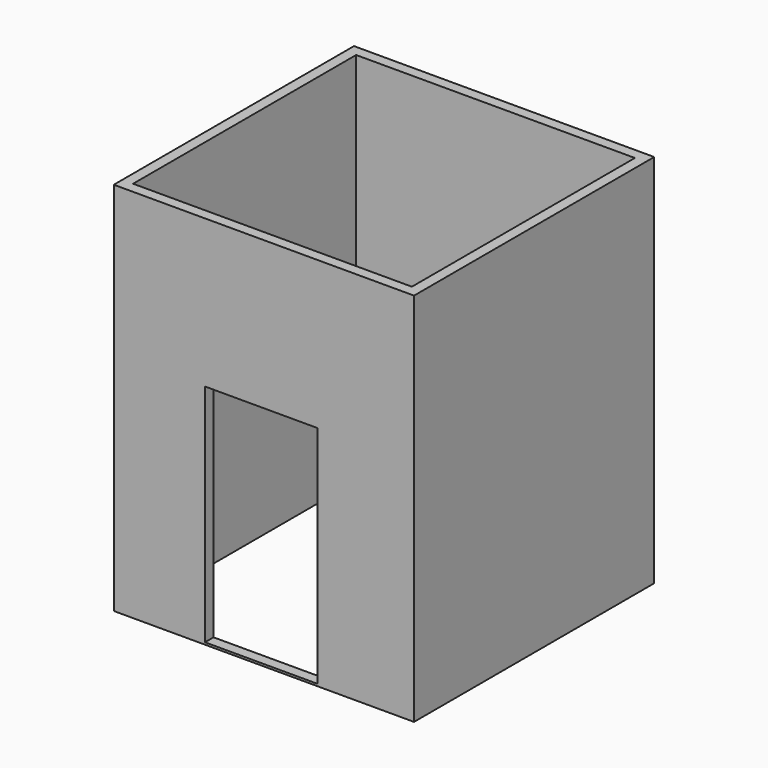
from build123d import *

# Parameters (mm, degrees)
F0_W     = 2800
F0_H     = 2800
F0_W_2   = 2600
F0_H_2   = 2600
F1_DEPTH = 3500
F2_W     = 1050
F2_H     = 2100
F3_DEPTH = 100


with BuildPart() as f1:
    # F0 (on Top) → F1 (new body)
    with BuildSketch(Plane.XY):
        Rectangle(F0_W, F0_H)
        Rectangle(F0_W_2, F0_H_2, mode=Mode.SUBTRACT)
    extrude(amount=F1_DEPTH)

    # F2 (on face) → F3 (cut, through all)
    with BuildSketch(Plane.XZ.offset(1400)):
        with Locations((-25, 1070)):
            Rectangle(F2_W, F2_H)
    extrude(amount=-F3_DEPTH, mode=Mode.SUBTRACT)


solid = f1.part
